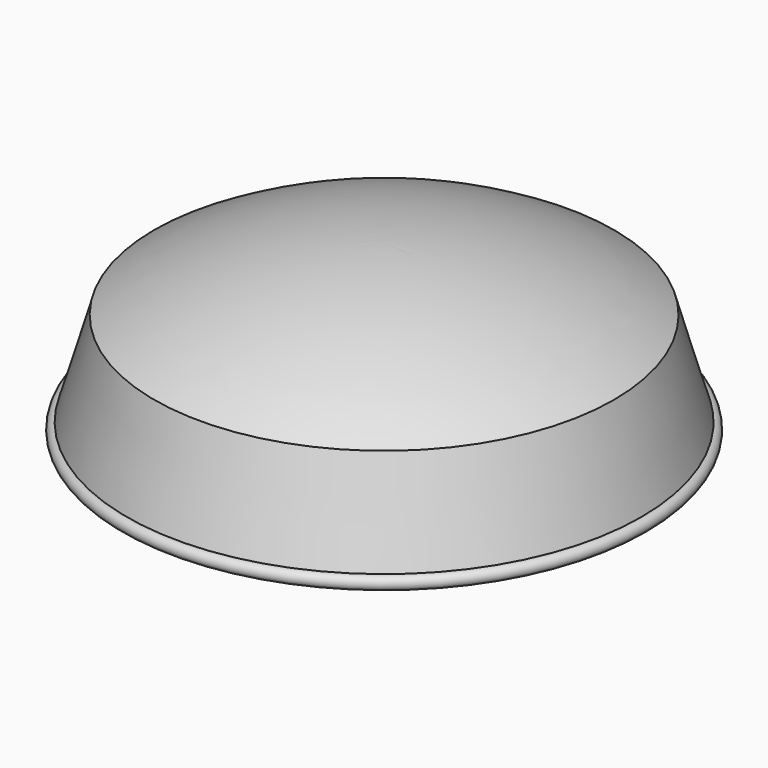
from build123d import *


with BuildPart() as f1:
    # F0 (on Front) → F1 (revolve)
    with BuildSketch(Plane.XZ):
        with BuildLine():
            Line((50, 20), (50, 0))
            Line((50, 0), (58, 0))
            ThreePointArc((58, 0), (59.5, 1.5), (58, 3))
            Line((58, 3), (51.830047, 24.252994))
            ThreePointArc((51.830047, 24.252994), (26.90738, 35.045092), (0, 38.733136))
            Line((0, 38.733136), (0, 34.149608))
            ThreePointArc((0, 34.149608), (25.981779, 30.544085), (50, 20))
        make_face()
    revolve(axis=Axis((0, 0, 17.074804), (0, 0, 1)))


solid = f1.part
